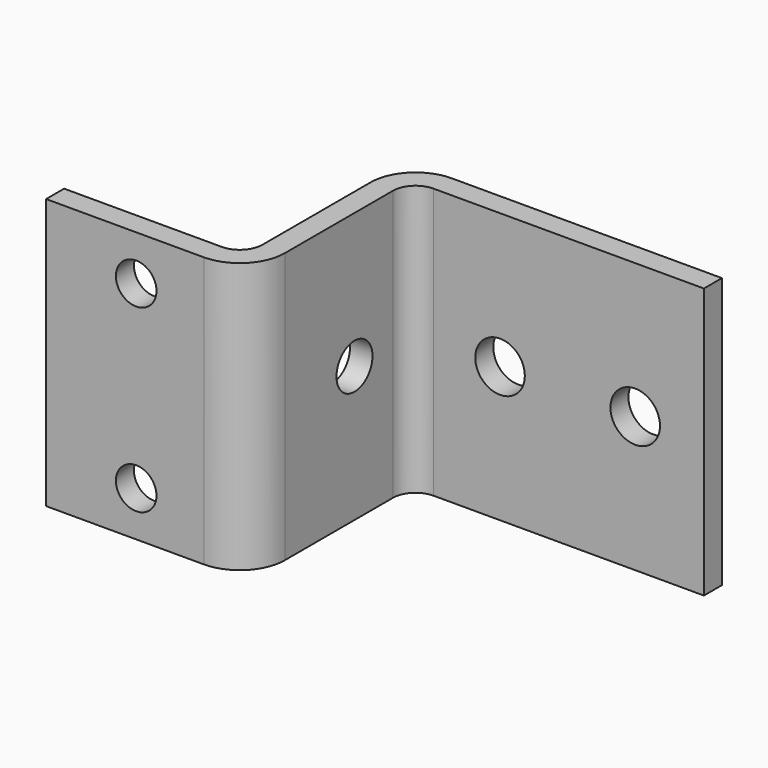
from build123d import *

# Parameters (mm, degrees)
F1_DEPTH = 60
F2_R     = 5
F3_DEPTH = 25
F4_R     = 4.5
F4_R_2   = 5.5
F5_DEPTH = 25
F6_DEPTH = 25
F7_R     = 5.5
F8_DEPTH = 25


with BuildPart() as f1:
    # F0 (on Top) → F1 (new body)
    with BuildSketch(Plane.XY):
        with BuildLine():
            Line((-58.542077, -9.532291), (-93.542077, -9.532291))
            Line((-93.542077, -9.532291), (-93.542077, -14.532291))
            Line((-93.542077, -14.532291), (-73.946506, -14.532291))
            Line((-73.946506, -14.532291), (-58.542077, -14.532291))
            ThreePointArc((-58.542077, -14.532291), (-51.471009, -11.603359), (-48.542077, -4.532291))
            Line((-48.542077, -4.532291), (-48.542077, 25.467709))
            ThreePointArc((-48.542077, 25.467709), (-47.07761, 29.003243), (-43.542077, 30.467709))
            Line((-43.542077, 30.467709), (16.457923, 30.467709))
            Line((16.457923, 30.467709), (16.457923, 35.467709))
            Line((16.457923, 35.467709), (-43.542077, 35.467709))
            ThreePointArc((-43.542077, 35.467709), (-50.613144, 32.538777), (-53.542077, 25.467709))
            Line((-53.542077, 25.467709), (-53.542077, -4.532291))
            ThreePointArc((-53.542077, -4.532291), (-55.006543, -8.067825), (-58.542077, -9.532291))
        make_face()
    extrude(amount=F1_DEPTH)

    # F2 (on face) → F3 (cut)
    with BuildSketch(Plane(origin=(-53.542077, 0, 0), x_dir=(0, -1, 0), z_dir=(-1, 0, 0))):
        with Locations((-14.781684, 30.048703)):
            Circle(F2_R)
    extrude(amount=-F3_DEPTH, mode=Mode.SUBTRACT)

    # F4 (on face) → F5 (cut)
    with BuildSketch(Plane.XZ.offset(14.532291)):
        with Locations((-73.542077, 50)):
            Circle(F4_R)
        with Locations((-73.542077, 10)):
            Circle(F4_R)
        with Locations((-28.542077, 30)):
            Circle(F4_R_2)
        with Locations((1.457923, 30)):
            Circle(F4_R_2)
    extrude(amount=-F5_DEPTH, mode=Mode.SUBTRACT)

    # F4 (on face) → F6 (cut)
    with BuildSketch(Plane.XZ.offset(14.532291)):
        with Locations((-28.542077, 30)):
            Circle(F4_R_2)
        with Locations((1.457923, 30)):
            Circle(F4_R_2)
    extrude(amount=-F6_DEPTH, mode=Mode.SUBTRACT)

    # F7 (on face) → F8 (cut)
    with BuildSketch(Plane.XZ.offset(-30.467709)):
        with Locations((-28.788077, 30)):
            Circle(F7_R)
        with Locations((1.211923, 30)):
            Circle(F7_R)
    extrude(amount=-F8_DEPTH, mode=Mode.SUBTRACT)


solid = f1.part
